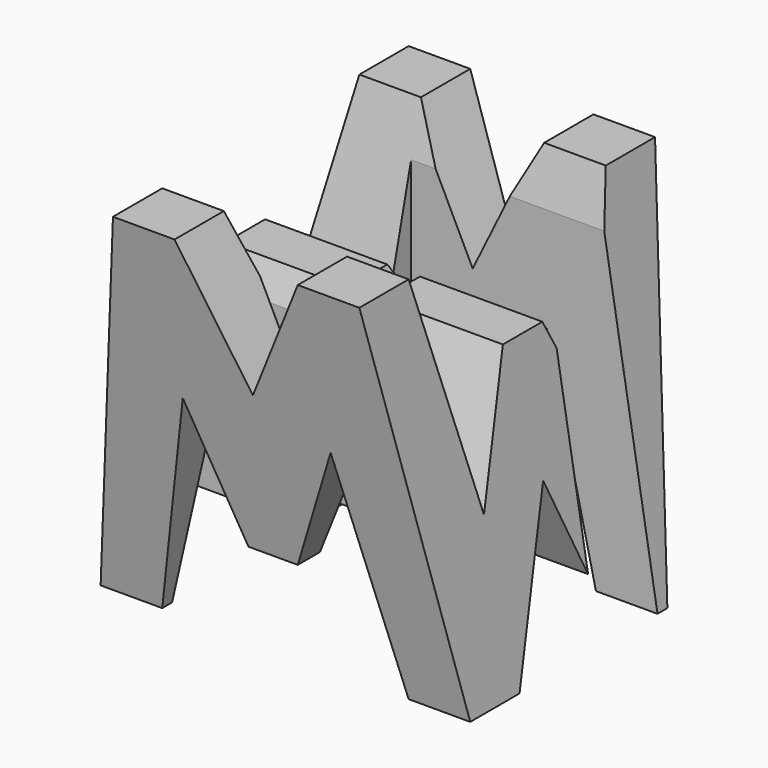
from build123d import *

# Parameters (mm, degrees)
F0_W     = 38.1
F0_H     = 38.1
F1_DEPTH = 38.1
F5_DEPTH = 38.1
F7_DEPTH = 38.1
F8_W     = 25.4
F8_H     = 7.62
F9_DEPTH = 38.1


with BuildPart() as f1:
    # F0 (on Front) → F1 (new body)
    with BuildSketch(Plane.XZ):
        with Locations((19.05, 19.05)):
            Rectangle(F0_W, F0_H)
    extrude(amount=F1_DEPTH)

    # F4 (on offset) → F5 (cut)
    with BuildSketch(Plane.YZ.offset(38.1)):
        Polygon((-6.35, 0), (0, 0), (0, 38.1), align=None)
        Polygon((-11.43, 17.476514), (-6.35, 38.1), (-31.75, 38.1), (-26.67, 15.875), (-21.59, 28.575), (-16.51, 28.575), align=None)
        Polygon((-31.75, 0), (-38.1, 38.1), (-38.1, 0), align=None)
        Polygon((-25.4, 0), (-12.7, 0), (-19.05, 15.875), align=None)
    extrude(amount=-F5_DEPTH, mode=Mode.SUBTRACT)

    # F6 (on Front) → F7 (cut)
    with BuildSketch(Plane.XZ):
        Polygon((11.43, 22.225), (6.35, 0), (31.75, 0), (26.67, 22.225), (21.59, 9.525), (16.51, 9.525), align=None)
        Polygon((31.75, 38.1), (38.1, 0), (38.1, 38.1), align=None)
        Polygon((25.4, 38.1), (12.7, 38.1), (19.05, 25.139847), align=None)
        Polygon((6.35, 38.1), (0, 38.1), (0, 0), align=None)
    extrude(amount=F7_DEPTH, mode=Mode.SUBTRACT)

    # F8 (on offset) → F9 (cut)
    with BuildSketch(Plane.XY.offset(38.1)):
        with Locations((25.4, -11.43)):
            Rectangle(F8_W, F8_H)
        with Locations((12.7, -26.67)):
            Rectangle(F8_W, F8_H)
    extrude(amount=-F9_DEPTH, mode=Mode.SUBTRACT)


solid = f1.part
